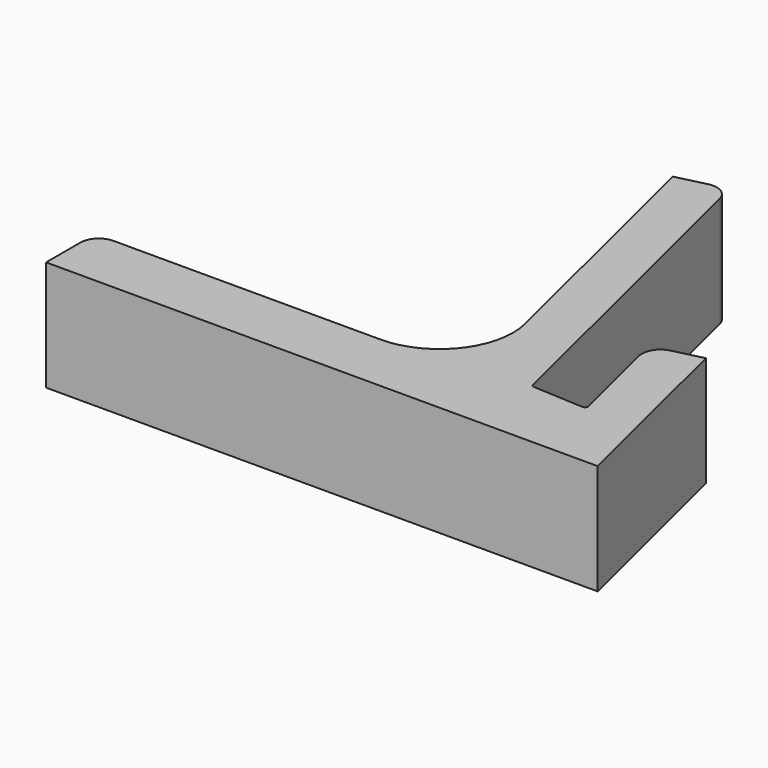
from build123d import *

# Parameters (mm, degrees)
F1_DEPTH = 18
F2_R     = 3
F3_R     = 3
F4_R     = 12
F5_R     = 0.5


with BuildPart() as f1:
    # F0 (on Top) → F1 (new body)
    with BuildSketch(Plane.XY):
        Polygon((-61.901969, -15.611527), (28.098031, -15.611527), (20.267047, 16.256898), (12.498162, 14.347861), (17.032125, -4.103242), (7.746533, -3.611527), (-6.571248, 54.655111), (-14.340133, 52.746074), (0, -5.611527), (-61.901969, -5.611527), align=None)
    extrude(amount=F1_DEPTH)

    # F2
    f2_edges = [f1.edges().sort_by_distance(p)[0] for p in [
        (12.498162, 14.347861, 9),
        (-6.571248, 54.655111, 9),
    ]]
    fillet(f2_edges, radius=F2_R)

    # F3
    f3_edges = [f1.edges().sort_by_distance(p)[0] for p in [
        (-61.901969, -5.611527, 9),
    ]]
    fillet(f3_edges, radius=F3_R)

    # F4
    f4_edges = [f1.edges().sort_by_distance(p)[0] for p in [
        (0, -5.611527, 9),
    ]]
    fillet(f4_edges, radius=F4_R)

    # F5
    f5_edges = [f1.edges().sort_by_distance(p)[0] for p in [
        (17.032125, -4.103242, 9),
        (7.746533, -3.611527, 9),
    ]]
    fillet(f5_edges, radius=F5_R)


solid = f1.part
